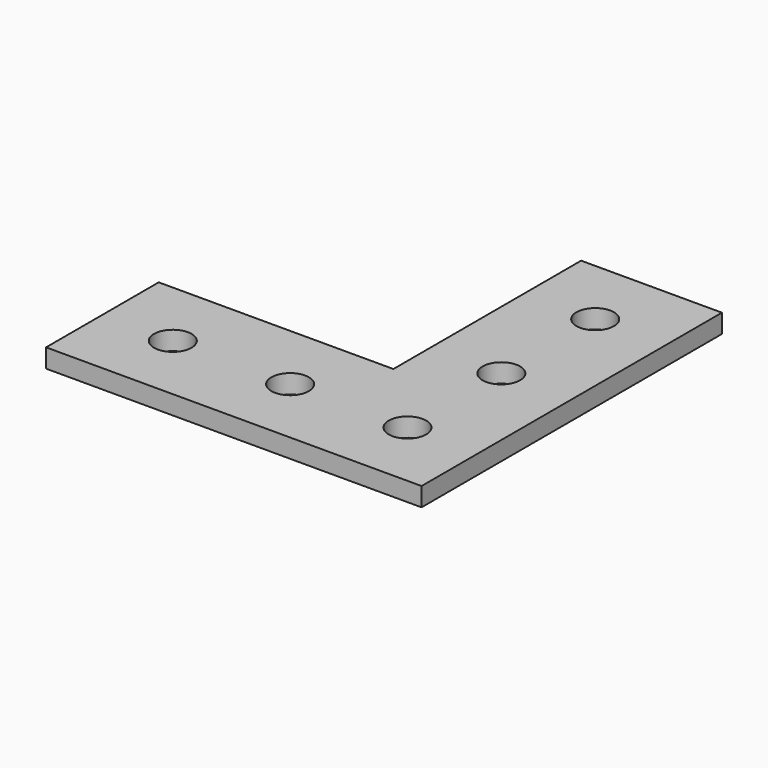
from build123d import *

# Parameters (mm, degrees)
F0_R     = 4
F1_DEPTH = 4


with BuildPart() as f1:
    # F0 (on Top) → F1 (new body)
    with BuildSketch(Plane.XY):
        Polygon((40, 40), (10, 40), (10, -10), (-40, -10), (-40, -40), (40, -40), align=None)
        with Locations((-25, -25)):
            Circle(F0_R, mode=Mode.SUBTRACT)
        with Locations((0, -25)):
            Circle(F0_R, mode=Mode.SUBTRACT)
        with Locations((25, -25)):
            Circle(F0_R, mode=Mode.SUBTRACT)
        with Locations((25, 0)):
            Circle(F0_R, mode=Mode.SUBTRACT)
        with Locations((25, 25)):
            Circle(F0_R, mode=Mode.SUBTRACT)
    extrude(amount=F1_DEPTH)


solid = f1.part
